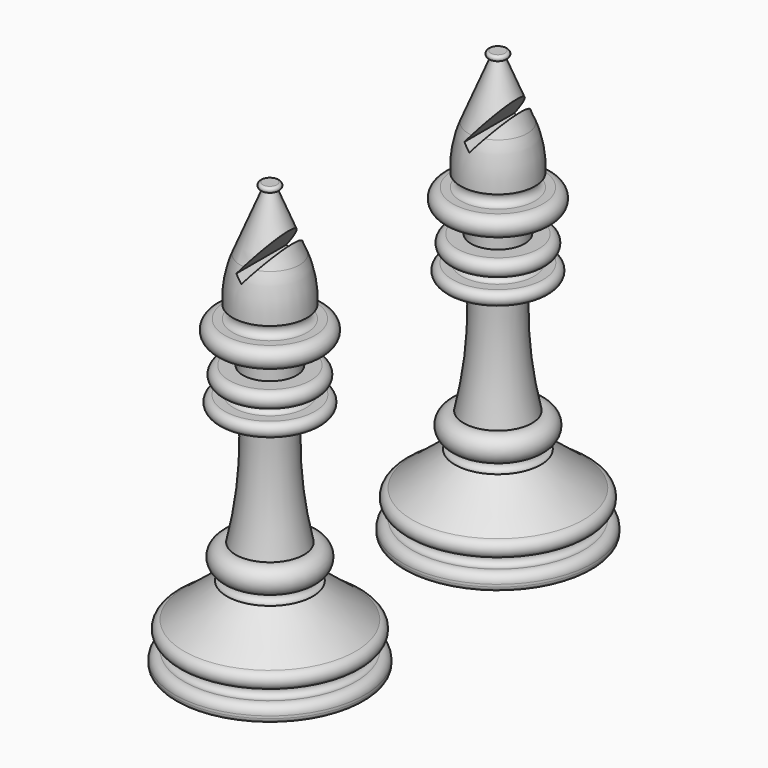
from build123d import *

# Parameters (mm, degrees)
F2_R     = 1
F4_DEPTH = 12.5


with BuildPart() as f1:
    # F0 (on Front) → F1 (revolve)
    with BuildSketch(Plane.XZ):
        with BuildLine():
            Line((0, -45), (0, 45))
            Line((0, 45), (-1.477647, 45.013647))
            ThreePointArc((-1.477647, 45.013647), (-2.032514, 44.30278), (-1.201579, 43.952411))
            Line((-1.201579, 43.952411), (-6.22574, 31.702091))
            ThreePointArc((-6.22574, 31.702091), (-7.535217, 27.157535), (-7.83401, 22.437532))
            ThreePointArc((-7.83401, 22.437532), (-6.468075, 21.071597), (-7.83401, 19.705663))
            Line((-7.83401, 19.705663), (-9.490674, 19.705663))
            ThreePointArc((-9.490674, 19.705663), (-11.540974, 17.655363), (-9.490674, 15.605064))
            Line((-9.490674, 15.605064), (-5.65466, 15.605064))
            Line((-5.65466, 15.605064), (-5.65466, 11.072825))
            Line((-5.65466, 11.072825), (-8.584452, 11.072825))
            ThreePointArc((-8.584452, 11.072825), (-10.265357, 9.39192), (-8.584452, 7.711016))
            Line((-8.584452, 7.711016), (-7.629468, 7.711016))
            ThreePointArc((-7.629468, 7.711016), (-6.612611, 6.694159), (-7.629468, 5.677301))
            Line((-7.629468, 5.677301), (-9.539437, 5.677301))
            ThreePointArc((-9.539437, 5.677301), (-10.942273, 4.274465), (-9.539437, 2.871629))
            Line((-9.539437, 2.871629), (-5.223017, 2.871629))
            ThreePointArc((-5.223017, 2.871629), (-5.309597, -9.481716), (-7.198689, -21.690071))
            ThreePointArc((-7.198689, -21.690071), (-10.290912, -23.447977), (-9.038738, -26.777262))
            ThreePointArc((-9.038738, -26.777262), (-7.182407, -27.79412), (-9.038738, -28.810978))
            Line((-9.038738, -28.810978), (-18.077476, -36.041968))
            ThreePointArc((-18.077476, -36.041968), (-19.436967, -37.736731), (-18.077476, -39.431494))
            ThreePointArc((-18.077476, -39.431494), (-16.529648, -40.561337), (-18.077476, -41.69118))
            ThreePointArc((-18.077476, -41.69118), (-19.4296, -42.180158), (-20, -43.5))
            Line((-20, -43.5), (-20, -45))
            Line((-20, -45), (0, -45))
        make_face()
    revolve(axis=Axis((0, 0, 1.468793), (0, 0, -1)))

    # F2
    f2_edges = [f1.edges().sort_by_distance(p)[0] for p in [
        (20, 0, -45),
    ]]
    fillet(f2_edges, radius=F2_R)

    # F3 (on Front) → F4 (cut, symmetric)
    with BuildSketch(Plane.XZ):
        Polygon((7.419809, 38.428567), (5.875179, 39.657466), (-1.807746, 30.166786), (-0.273638, 28.92489), align=None)
    extrude(amount=F4_DEPTH, both=True, mode=Mode.SUBTRACT)


with BuildPart() as f6_1:
    # F6: instance of F1
    add(f1.part.mirror(Plane.XZ.offset(30)))


solid = Compound([f1.part, f6_1.part])
